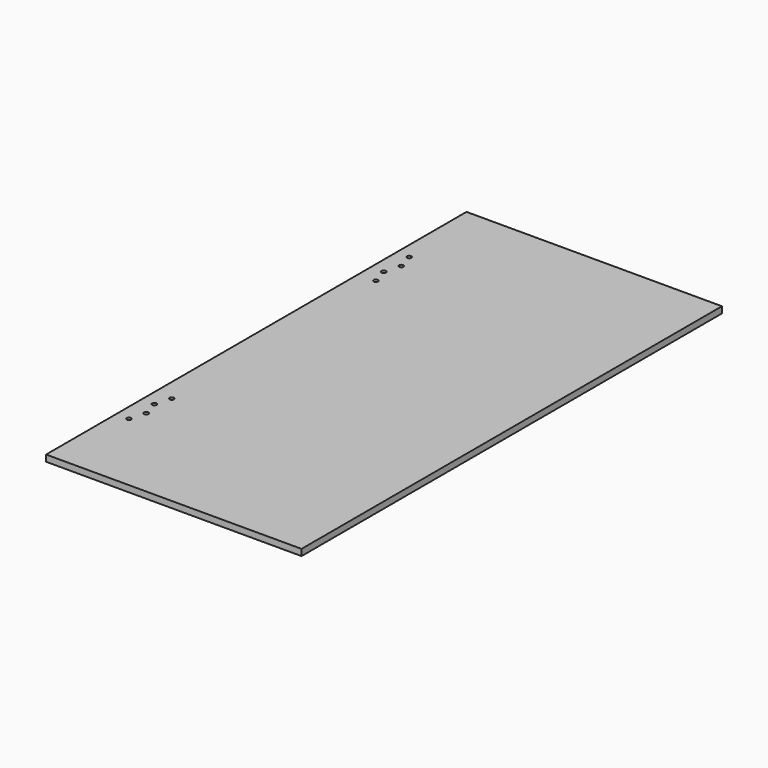
from build123d import *

# Parameters (mm, degrees)
F0_W     = 444.5
F0_H     = 914.4
F1_DEPTH = 11.1125
F3_D     = 7.62
F3_DEPTH = 12.7


with BuildPart() as f1:
    # F0 (on Top) → F1 (new body)
    with BuildSketch(Plane.XY):
        Rectangle(F0_W, F0_H)
    extrude(amount=F1_DEPTH)

    # F3
    with Locations(Plane.XY.offset(11.1125)):
        with Locations((-191.7954, 277.4442), (-200.025, 304.8), (-200.025, 249.4153), (-191.7954, 222.0595), (-191.7954, -222.0595), (-200.025, -249.4153), (-191.7954, -277.4442), (-200.025, -304.8)):
            Hole(F3_D / 2, depth=F3_DEPTH)


solid = f1.part
